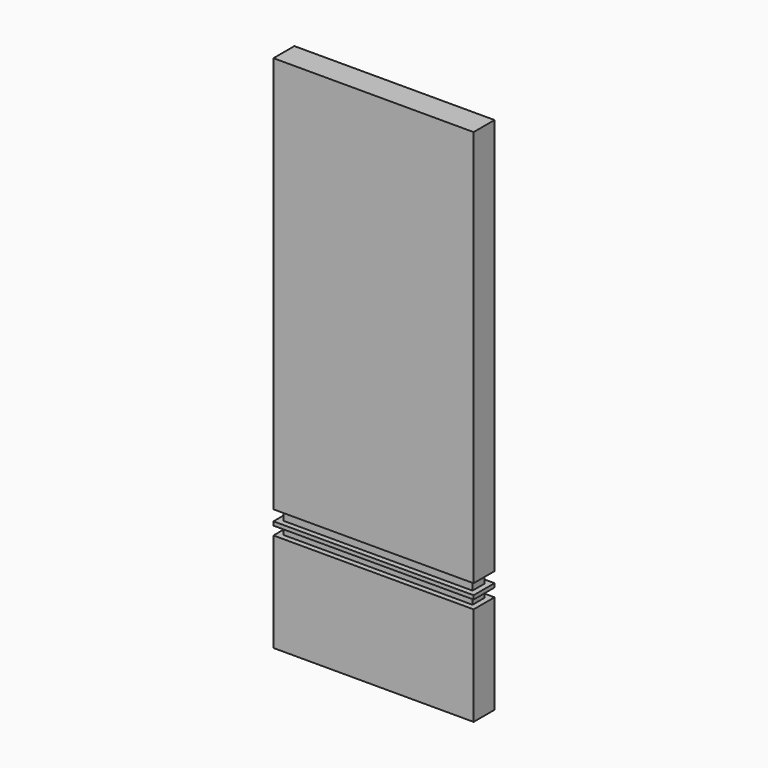
from build123d import *

# Parameters (mm, degrees)
F0_W     = 229.329064
F0_H     = 29.990316
F1_DEPTH = 113.530092
F2_W     = 216.629066
F2_H     = 17.290316
F3_DEPTH = 26.342174
F5_W     = 229.329064
F5_H     = 29.990316
F6_DEPTH = 4.393091
F7_W     = 229.329064
F7_H     = 29.990316
F7_W_2   = 216.629066
F7_H_2   = 17.290316
F8_DEPTH = 455.099583


with BuildPart() as f1:
    # F0 (on Top) → F1 (new body)
    with BuildSketch(Plane.XY):
        Rectangle(F0_W, F0_H)
    extrude(amount=F1_DEPTH)

    # F2 (on face) → F3 (join)
    with BuildSketch(Plane.XY.offset(113.530092)):
        Rectangle(F2_W, F2_H)
    extrude(amount=F3_DEPTH)

    # F5 (on offset) → F6 (join)
    with BuildSketch(Plane.XY.offset(123.39519)):
        Rectangle(F5_W, F5_H)
    extrude(amount=F6_DEPTH)

    # F7 (on face) → F8 (join)
    with BuildSketch(Plane.XY.offset(139.872266)):
        Rectangle(F7_W, F7_H)
        Rectangle(F7_W_2, F7_H_2, mode=Mode.SUBTRACT)
        Rectangle(F7_W_2, F7_H_2)
    extrude(amount=F8_DEPTH)


solid = f1.part
